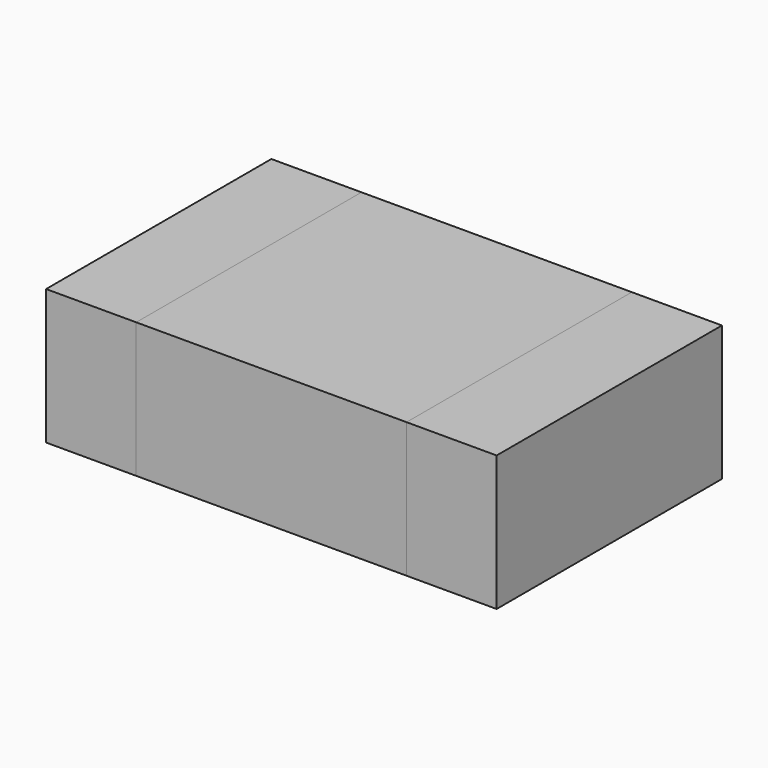
from build123d import *

# Parameters (mm, degrees)
F0_W     = 1.2
F0_H     = 1.25
F1_DEPTH = 0.6
F0_W_2   = 0.4
F2_DEPTH = 0.6


with BuildPart() as f1:
    # F0 (on Top) → F1 (new body)
    with BuildSketch(Plane.XY):
        Rectangle(F0_W, F0_H)
    extrude(amount=F1_DEPTH)


with BuildPart() as f2:
    # F0 (on Top) → F2 (new body, through all)
    with BuildSketch(Plane.XY):
        with Locations((-0.8, 0)):
            Rectangle(F0_W_2, F0_H)
        with Locations((0.8, 0)):
            Rectangle(F0_W_2, F0_H)
    extrude(amount=F2_DEPTH)


solid = Compound([f1.part, f2.part])
